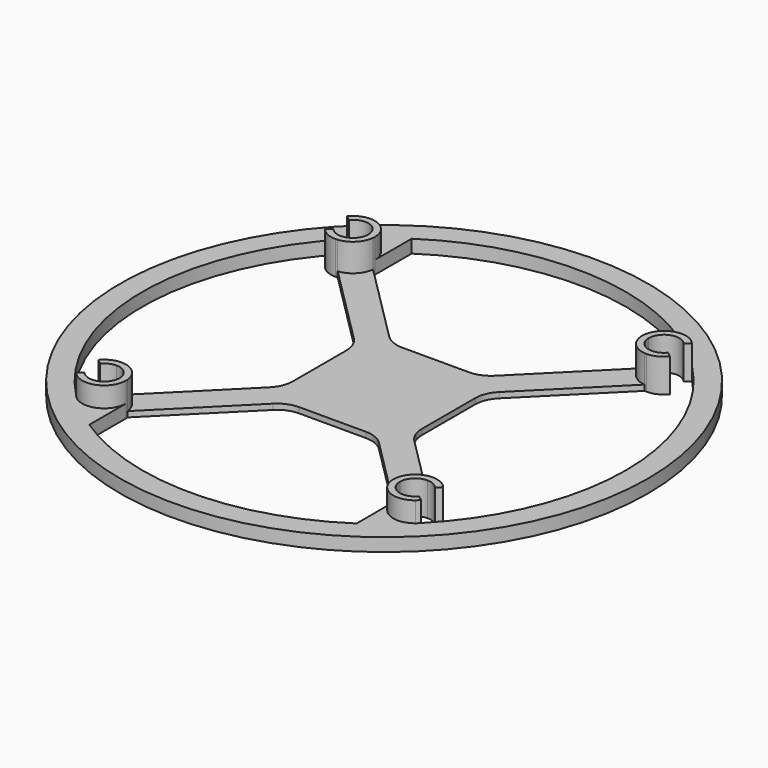
from build123d import *

# Parameters (mm, degrees)
F1_DEPTH = 1.27
F2_DEPTH = 7.62
F0_R     = 60.3513875408
F3_DEPTH = 3


with BuildPart() as f1:
    # F0 (on Top) → F1 (new body)
    with BuildSketch(Plane.XY):
        with BuildLine():
            Line((-12.1017438942, 16.5918719547), (-30.5802157427, 35.0703438033))
            ThreePointArc((-30.5802157427, 35.0703438033), (-32.0217790883, 32.0217790883), (-35.0703438033, 30.5802157427))
            Line((-35.0703438033, 30.5802157427), (-16.5918719547, 12.1017438942))
            Line((-16.5918719547, 12.1017438942), (-14.732, 10.2418719395))
            Line((-14.732, 10.2418719395), (-14.732, 14.732))
            Line((-14.732, 14.732), (-10.2418719395, 14.732))
            Line((-10.2418719395, 14.732), (-12.1017438942, 16.5918719547))
        make_face()
        Polygon((14.732, 14.732), (10.2418719395, 14.732), (7.6116158184, 14.732), (-7.6116157971, 14.732), (-10.2418719395, 14.732), (-14.732, 14.732), (-14.732, 10.2418719395), (-14.732, 7.6116158184), (-14.732, -7.6116158184), (-14.732, -10.2418719395), (-14.732, -14.732), (-10.2418719395, -14.732), (-7.6116158234, -14.732), (7.6116158184, -14.732), (10.2418719395, -14.732), (14.732, -14.732), (14.732, -10.2418719395), (14.732, -7.6116158184), (14.732, 7.6116158184), (14.732, 10.2418719395), align=None)
        with BuildLine():
            ThreePointArc((35.0703438033, 30.5802157427), (32.0217790883, 32.0217790883), (30.5802157427, 35.0703438033))
            Line((30.5802157427, 35.0703438033), (12.1017438942, 16.5918719547))
            Line((12.1017438942, 16.5918719547), (10.2418719395, 14.732))
            Line((10.2418719395, 14.732), (14.732, 14.732))
            Line((14.732, 14.732), (14.732, 10.2418719395))
            Line((14.732, 10.2418719395), (16.5918719304, 12.1017438699))
            Line((16.5918719304, 12.1017438699), (35.0703438033, 30.5802157427))
        make_face()
        with BuildLine():
            ThreePointArc((30.5802157427, -35.0703438033), (32.0217790883, -32.0217790883), (35.0703438033, -30.5802157427))
            Line((35.0703438033, -30.5802157427), (16.5918719698, -12.1017439092))
            Line((16.5918719698, -12.1017439092), (14.732, -10.2418719395))
            Line((14.732, -10.2418719395), (14.732, -14.732))
            Line((14.732, -14.732), (10.2418719395, -14.732))
            Line((10.2418719395, -14.732), (12.1017438942, -16.5918719547))
            Line((12.1017438942, -16.5918719547), (30.5802157427, -35.0703438033))
        make_face()
        with BuildLine():
            Line((-16.5918719154, -12.1017438548), (-35.0703438033, -30.5802157427))
            ThreePointArc((-35.0703438033, -30.5802157427), (-32.0217790883, -32.0217790883), (-30.5802157427, -35.0703438033))
            Line((-30.5802157427, -35.0703438033), (-12.1017438699, -16.5918719304))
            Line((-12.1017438699, -16.5918719304), (-10.2418719395, -14.732))
            Line((-10.2418719395, -14.732), (-14.732, -14.732))
            Line((-14.732, -14.732), (-14.732, -10.2418719395))
            Line((-14.732, -10.2418719395), (-16.5918719154, -12.1017438548))
        make_face()
        with BuildLine():
            Line((-10.2418719395, -14.732), (-12.1017438699, -16.5918719304))
            ThreePointArc((-12.1017438699, -16.5918719304), (-10.0416556103, -15.2153649671), (-7.6116158234, -14.732))
            Line((-7.6116158234, -14.732), (-10.2418719395, -14.732))
        make_face()
        with BuildLine():
            Line((-14.732, -10.2418719395), (-14.732, -7.6116158184))
            ThreePointArc((-14.732, -7.6116158184), (-15.215364962, -10.0416555982), (-16.5918719154, -12.1017438548))
            Line((-16.5918719154, -12.1017438548), (-14.732, -10.2418719395))
        make_face()
        with BuildLine():
            ThreePointArc((7.6116158184, -14.732), (10.0416556239, -15.2153649727), (12.1017438942, -16.5918719547))
            Line((12.1017438942, -16.5918719547), (10.2418719395, -14.732))
            Line((10.2418719395, -14.732), (7.6116158184, -14.732))
        make_face()
        with BuildLine():
            ThreePointArc((16.5918719698, -12.1017439092), (15.2153649768, -10.0416556337), (14.732, -7.6116158184))
            Line((14.732, -7.6116158184), (14.732, -10.2418719395))
            Line((14.732, -10.2418719395), (16.5918719698, -12.1017439092))
        make_face()
        with BuildLine():
            ThreePointArc((14.732, 7.6116158184), (15.2153649661, 10.041655608), (16.5918719304, 12.1017438699))
            Line((16.5918719304, 12.1017438699), (14.732, 10.2418719395))
            Line((14.732, 10.2418719395), (14.732, 7.6116158184))
        make_face()
        with BuildLine():
            Line((10.2418719395, 14.732), (12.1017438942, 16.5918719547))
            ThreePointArc((12.1017438942, 16.5918719547), (10.0416556239, 15.2153649727), (7.6116158184, 14.732))
            Line((7.6116158184, 14.732), (10.2418719395, 14.732))
        make_face()
        with BuildLine():
            ThreePointArc((-7.6116157971, 14.732), (-10.0416556141, 15.2153649686), (-12.1017438942, 16.5918719547))
            Line((-12.1017438942, 16.5918719547), (-10.2418719395, 14.732))
            Line((-10.2418719395, 14.732), (-7.6116157971, 14.732))
        make_face()
        with BuildLine():
            Line((-14.732, 10.2418719395), (-16.5918719547, 12.1017438942))
            ThreePointArc((-16.5918719547, 12.1017438942), (-15.2153649727, 10.0416556239), (-14.732, 7.6116158184))
            Line((-14.732, 7.6116158184), (-14.732, 10.2418719395))
        make_face()
    extrude(amount=F1_DEPTH)

    # F0 (on Top) → F2 (join)
    with BuildSketch(Plane.XY):
        with BuildLine():
            Line((-32.0548, 35.56), (-30.5562, 35.56))
            ThreePointArc((-30.5562, 35.56), (-33.4209640676, 40.0835538816), (-38.735, 39.4274784343))
            ThreePointArc((-38.735, 39.4274784343), (-39.0827729357, 39.0827729357), (-39.4274784343, 38.735))
            Line((-39.4274784343, 38.735), (-38.2691980911, 37.7841116751))
            ThreePointArc((-38.2691980911, 37.7841116751), (-34.378867939, 38.8602051594), (-32.0548, 35.56))
        make_face()
        with BuildLine():
            ThreePointArc((-30.5802157427, 35.0703438033), (-30.562207542, 35.3148776087), (-30.5562, 35.56))
            Line((-30.5562, 35.56), (-32.0548, 35.56))
            ThreePointArc((-32.0548, 35.56), (-33.0814493106, 33.0814493106), (-35.56, 32.0548))
            Line((-35.56, 32.0548), (-35.56, 30.5562))
            ThreePointArc((-35.56, 30.5562), (-35.3148776087, 30.562207542), (-35.0703438033, 30.5802157427))
            ThreePointArc((-35.0703438033, 30.5802157427), (-32.0217790883, 32.0217790883), (-30.5802157427, 35.0703438033))
        make_face()
        with BuildLine():
            Line((-35.56, 30.5562), (-35.56, 32.0548))
            ThreePointArc((-35.56, 32.0548), (-37.0584109577, 32.3912160626), (-38.2691980911, 33.3358883249))
            Line((-38.2691980911, 33.3358883249), (-39.4274784343, 32.385))
            ThreePointArc((-39.4274784343, 32.385), (-37.6990359324, 31.0364461184), (-35.56, 30.5562))
        make_face()
        with BuildLine():
            ThreePointArc((38.735, 39.4274784343), (33.4209640676, 40.0835538816), (30.5562, 35.56))
            Line((30.5562, 35.56), (32.0548, 35.56))
            ThreePointArc((32.0548, 35.56), (34.378867939, 38.8602051594), (38.2691980911, 37.7841116751))
            Line((38.2691980911, 37.7841116751), (39.4274784343, 38.735))
            ThreePointArc((39.4274784343, 38.735), (39.0827729357, 39.0827729357), (38.735, 39.4274784343))
        make_face()
        with BuildLine():
            Line((32.0548, 35.56), (30.5562, 35.56))
            ThreePointArc((30.5562, 35.56), (30.562207542, 35.3148776087), (30.5802157427, 35.0703438033))
            ThreePointArc((30.5802157427, 35.0703438033), (32.0217790883, 32.0217790883), (35.0703438033, 30.5802157427))
            ThreePointArc((35.0703438033, 30.5802157427), (35.3148776087, 30.562207542), (35.56, 30.5562))
            Line((35.56, 30.5562), (35.56, 32.0548))
            ThreePointArc((35.56, 32.0548), (33.0814493106, 33.0814493106), (32.0548, 35.56))
        make_face()
        with BuildLine():
            ThreePointArc((38.2691980911, 33.3358883249), (37.0584109577, 32.3912160626), (35.56, 32.0548))
            Line((35.56, 32.0548), (35.56, 30.5562))
            ThreePointArc((35.56, 30.5562), (37.6990359324, 31.0364461184), (39.4274784343, 32.385))
            Line((39.4274784343, 32.385), (38.2691980911, 33.3358883249))
        make_face()
        with BuildLine():
            ThreePointArc((39.4274784343, -32.385), (37.6990359324, -31.0364461184), (35.56, -30.5562))
            Line((35.56, -30.5562), (35.56, -32.0548))
            ThreePointArc((35.56, -32.0548), (37.0584109577, -32.3912160626), (38.2691980911, -33.3358883249))
            Line((38.2691980911, -33.3358883249), (39.4274784343, -32.385))
        make_face()
        with BuildLine():
            Line((35.56, -32.0548), (35.56, -30.5562))
            ThreePointArc((35.56, -30.5562), (35.3148776087, -30.562207542), (35.0703438033, -30.5802157427))
            ThreePointArc((35.0703438033, -30.5802157427), (32.0217790883, -32.0217790883), (30.5802157427, -35.0703438033))
            ThreePointArc((30.5802157427, -35.0703438033), (30.562207542, -35.3148776087), (30.5562, -35.56))
            Line((30.5562, -35.56), (32.0548, -35.56))
            ThreePointArc((32.0548, -35.56), (33.0814493106, -33.0814493106), (35.56, -32.0548))
        make_face()
        with BuildLine():
            ThreePointArc((38.735, -39.4274784343), (39.0827729357, -39.0827729357), (39.4274784343, -38.735))
            Line((39.4274784343, -38.735), (38.2691980911, -37.7841116751))
            ThreePointArc((38.2691980911, -37.7841116751), (34.378867939, -38.8602051594), (32.0548, -35.56))
            Line((32.0548, -35.56), (30.5562, -35.56))
            ThreePointArc((30.5562, -35.56), (33.4209640676, -40.0835538816), (38.735, -39.4274784343))
        make_face()
        with BuildLine():
            Line((-38.2691980911, -37.7841116751), (-39.4274784343, -38.735))
            ThreePointArc((-39.4274784343, -38.735), (-39.0827729357, -39.0827729357), (-38.735, -39.4274784343))
            ThreePointArc((-38.735, -39.4274784343), (-33.4209640676, -40.0835538816), (-30.5562, -35.56))
            Line((-30.5562, -35.56), (-32.0548, -35.56))
            ThreePointArc((-32.0548, -35.56), (-34.378867939, -38.8602051594), (-38.2691980911, -37.7841116751))
        make_face()
        with BuildLine():
            ThreePointArc((-35.0703438033, -30.5802157427), (-35.3148776087, -30.562207542), (-35.56, -30.5562))
            Line((-35.56, -30.5562), (-35.56, -32.0548))
            ThreePointArc((-35.56, -32.0548), (-33.0814493106, -33.0814493106), (-32.0548, -35.56))
            Line((-32.0548, -35.56), (-30.5562, -35.56))
            ThreePointArc((-30.5562, -35.56), (-30.562207542, -35.3148776087), (-30.5802157427, -35.0703438033))
            ThreePointArc((-30.5802157427, -35.0703438033), (-32.0217790883, -32.0217790883), (-35.0703438033, -30.5802157427))
        make_face()
        with BuildLine():
            Line((-35.56, -32.0548), (-35.56, -30.5562))
            ThreePointArc((-35.56, -30.5562), (-37.6990359324, -31.0364461184), (-39.4274784343, -32.385))
            Line((-39.4274784343, -32.385), (-38.2691980911, -33.3358883249))
            ThreePointArc((-38.2691980911, -33.3358883249), (-37.0584109577, -32.3912160626), (-35.56, -32.0548))
        make_face()
    extrude(amount=F2_DEPTH)


with BuildPart() as f3:
    # F0 (on Top) → F3 (new body)
    with BuildSketch(Plane.XY):
        Circle(F0_R)
        with BuildLine():
            ThreePointArc((30.5562, 46.0569747405), (34.8038094851, 42.9374094003), (38.735, 39.4274784343))
            ThreePointArc((38.735, 39.4274784343), (39.0982209117, 39.0982209117), (39.4274784343, 38.735))
            ThreePointArc((39.4274784343, 38.735), (51.1572952813, 20.9250428959), (55.2713875408, 0))
            ThreePointArc((55.2713875408, 0), (51.1572952813, -20.9250428959), (39.4274784343, -38.735))
            ThreePointArc((39.4274784343, -38.735), (39.0982209117, -39.0982209117), (38.735, -39.4274784343))
            ThreePointArc((38.735, -39.4274784343), (34.8038094851, -42.9374094003), (30.5562, -46.0569747405))
            ThreePointArc((30.5562, -46.0569747405), (0, -55.2713875408), (-30.5562, -46.0569747405))
            ThreePointArc((-30.5562, -46.0569747405), (-34.8038094851, -42.9374094003), (-38.735, -39.4274784343))
            ThreePointArc((-38.735, -39.4274784343), (-39.0982209117, -39.0982209117), (-39.4274784343, -38.735))
            ThreePointArc((-39.4274784343, -38.735), (-55.2713875408, 0), (-39.4274784343, 38.735))
            ThreePointArc((-39.4274784343, 38.735), (-39.0982209117, 39.0982209117), (-38.735, 39.4274784343))
            ThreePointArc((-38.735, 39.4274784343), (-34.8038094851, 42.9374094003), (-30.5562, 46.0569747405))
            ThreePointArc((-30.5562, 46.0569747405), (0, 55.2713875408), (30.5562, 46.0569747405))
        make_face(mode=Mode.SUBTRACT)
        with BuildLine():
            ThreePointArc((-30.5562, -35.56), (-33.4209640676, -40.0835538816), (-38.735, -39.4274784343))
            ThreePointArc((-38.735, -39.4274784343), (-34.8038094851, -42.9374094003), (-30.5562, -46.0569747405))
            Line((-30.5562, -46.0569747405), (-30.5562, -35.56))
        make_face()
        with BuildLine():
            ThreePointArc((-38.735, 39.4274784343), (-33.4209640676, 40.0835538816), (-30.5562, 35.56))
            Line((-30.5562, 35.56), (-30.5562, 46.0569747405))
            ThreePointArc((-30.5562, 46.0569747405), (-34.8038094851, 42.9374094003), (-38.735, 39.4274784343))
        make_face()
        with BuildLine():
            Line((30.5562, 46.0569747405), (30.5562, 35.56))
            ThreePointArc((30.5562, 35.56), (33.4209640676, 40.0835538816), (38.735, 39.4274784343))
            ThreePointArc((38.735, 39.4274784343), (34.8038094851, 42.9374094003), (30.5562, 46.0569747405))
        make_face()
        with BuildLine():
            ThreePointArc((30.5562, -46.0569747405), (34.8038094851, -42.9374094003), (38.735, -39.4274784343))
            ThreePointArc((38.735, -39.4274784343), (33.4209640676, -40.0835538816), (30.5562, -35.56))
            Line((30.5562, -35.56), (30.5562, -46.0569747405))
        make_face()
    extrude(amount=F3_DEPTH)


solid = Compound([f1.part, f3.part])
